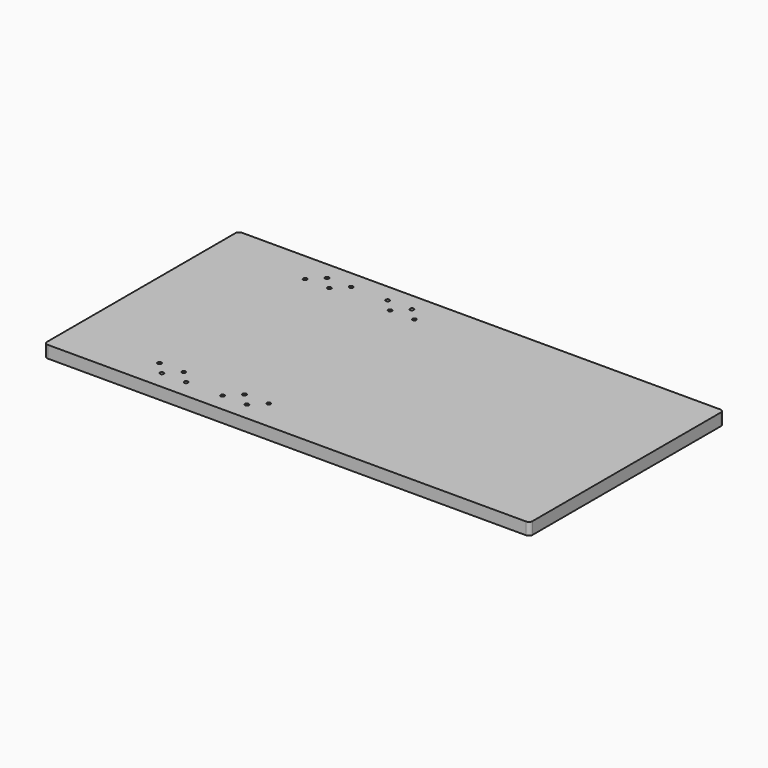
from build123d import *

# Parameters (mm, degrees)
SKETCH_W  = 400
SKETCH_H  = 200
SKETCH_R  = 1.5625
PAD_DEPTH = 10
FILLET_R  = 3


with BuildPart() as part:
    # Sketch → Pad (new body)
    with BuildSketch(Plane.XY):
        with Locations((200, 100)):
            Rectangle(SKETCH_W, SKETCH_H)
        with Locations((85, 15)):
            Circle(SKETCH_R, mode=Mode.SUBTRACT)
        with Locations((105, 15)):
            Circle(SKETCH_R, mode=Mode.SUBTRACT)
        with Locations((75, 25)):
            Circle(SKETCH_R, mode=Mode.SUBTRACT)
        with Locations((95, 25)):
            Circle(SKETCH_R, mode=Mode.SUBTRACT)
        with Locations((155, 15)):
            Circle(SKETCH_R, mode=Mode.SUBTRACT)
        with Locations((135, 15)):
            Circle(SKETCH_R, mode=Mode.SUBTRACT)
        with Locations((145, 25)):
            Circle(SKETCH_R, mode=Mode.SUBTRACT)
        with Locations((165, 25)):
            Circle(SKETCH_R, mode=Mode.SUBTRACT)
        with Locations((85, 185)):
            Circle(SKETCH_R, mode=Mode.SUBTRACT)
        with Locations((105, 185)):
            Circle(SKETCH_R, mode=Mode.SUBTRACT)
        with Locations((75, 175)):
            Circle(SKETCH_R, mode=Mode.SUBTRACT)
        with Locations((95, 175)):
            Circle(SKETCH_R, mode=Mode.SUBTRACT)
        with Locations((155, 185)):
            Circle(SKETCH_R, mode=Mode.SUBTRACT)
        with Locations((135, 185)):
            Circle(SKETCH_R, mode=Mode.SUBTRACT)
        with Locations((145, 175)):
            Circle(SKETCH_R, mode=Mode.SUBTRACT)
        with Locations((165, 175)):
            Circle(SKETCH_R, mode=Mode.SUBTRACT)
    extrude(amount=PAD_DEPTH)

    # Fillet
    fillet_edges = [part.edges().sort_by_distance(p)[0] for p in [
        (0, 0, 5),
        (400, 0, 5),
        (400, 200, 5),
        (0, 200, 5),
    ]]
    fillet(fillet_edges, radius=FILLET_R)


solid = part.part
